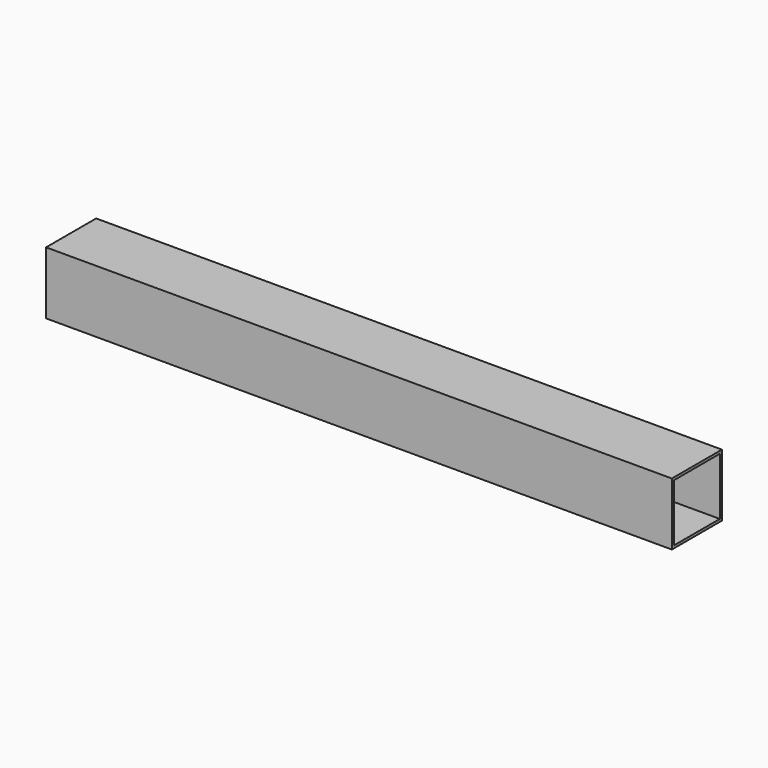
from build123d import *

# Parameters (mm, degrees)
F0_W          = 76.2
F0_H          = 76.2
F0_W_2        = 69.85
F0_H_2        = 69.85
F1_DEPTH      = 381
F1_DEPTH_BACK = 381


with BuildPart() as f1:
    # F0 (on Right) → F1 (new body, two sides)
    with BuildSketch(Plane.YZ) as f1_sk:
        Rectangle(F0_W, F0_H)
        Rectangle(F0_W_2, F0_H_2, mode=Mode.SUBTRACT)
    extrude(amount=F1_DEPTH)
    extrude(f1_sk.sketch, amount=-F1_DEPTH_BACK)


solid = f1.part
